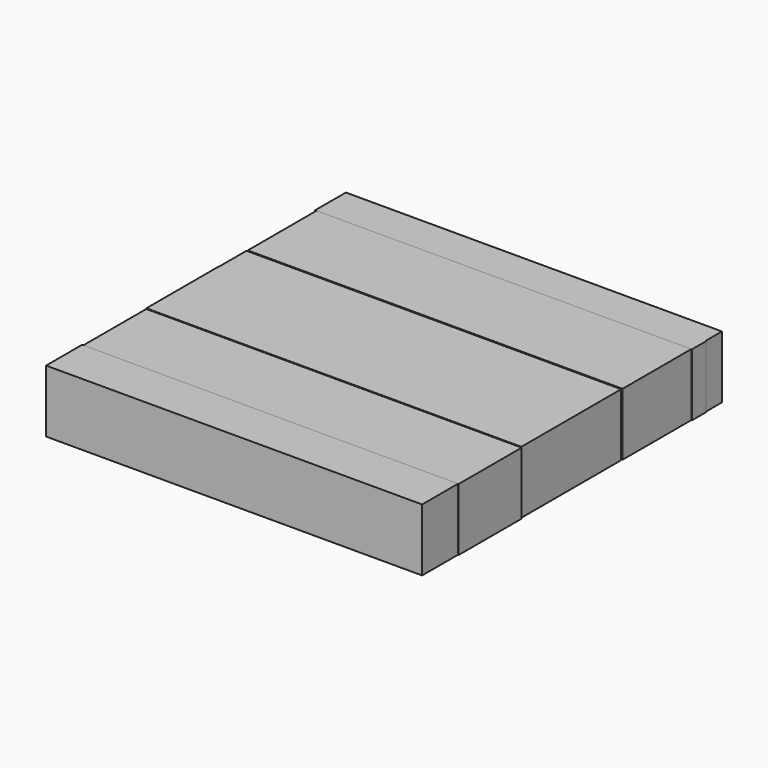
from build123d import *

# Parameters (mm, degrees)
F0_W     = 152.3466408253
F0_H     = 14.1597399488
F1_DEPTH = 25.4
F2_W     = 152.2337943316
F2_H     = 19.3312801421
F2_H_2   = 16.1093920469
F3_DEPTH = 25.4
F2_W_2   = 152.5022834539
F2_H_3   = 17.7203342319
F2_H_4   = 14.2299719155
F4_W     = 152.7707725763
F4_H     = 8.3231925964
F4_H_2   = 7.249224931
F4_W_2   = 0.2684816718
F5_DEPTH = 25.4
F4_H_3   = 6.7122429609
F4_H_4   = 11.5450695157


with BuildPart() as f1:
    # F0 (on Top) → F1 (new body)
    with BuildSketch(Plane.XY):
        Polygon((-76.4639377594, 11.2596936524), (-76.5942409635, 11.2596936524), (-76.5942409635, -11.483262293), (75.7523998618, -11.483262293), (75.7523998618, 11.2596936524), align=None)
        Polygon((-76.4639377594, 18.1400524452), (-76.4639377594, 11.2596936524), (75.7523998618, 11.2596936524), (75.7523998618, 25.0204112381), (-76.4639377594, 25.0204112381), align=None)
        with Locations((-0.4209205508, -18.5631322674)):
            Rectangle(F0_W, F0_H)
    extrude(amount=F1_DEPTH)


with BuildPart() as f3:
    # F2 (on Top) → F3 (new body)
    with BuildSketch(Plane.XY):
        with Locations((-0.1971200109, 51.2815769762)):
            Rectangle(F2_W, F2_H)
        with Locations((-0.1971200109, 33.5612408817)):
            Rectangle(F2_W, F2_H_2)
    extrude(amount=F3_DEPTH)


with BuildPart() as f3b:
    # F2 (on Top) → F3, piece 2 (new body)
    with BuildSketch(Plane.XY):
        with Locations((-0.0628754497, -34.9036902189)):
            Rectangle(F2_W_2, F2_H_3)
        with Locations((-0.0628754497, -50.8788432926)):
            Rectangle(F2_W_2, F2_H_4)
    extrude(amount=F3_DEPTH)


with BuildPart() as f5:
    # F4 (on face) → F5 (new body)
    with BuildSketch(Plane.XY):
        with Locations((-0.4656091332, 71.8210563064)):
            Rectangle(F4_W, F4_H)
        with Locations((-0.4656091332, 64.0348475426)):
            Rectangle(F4_W, F4_H_2)
        with Locations((76.0540179908, 64.0348475426)):
            Rectangle(F4_W_2, F4_H_2)
    extrude(amount=F5_DEPTH)


with BuildPart() as f5b:
    # F4 (on face) → F5, piece 2 (new body)
    with BuildSketch(Plane.XY):
        with Locations((-0.4656091332, -61.3499507308)):
            Rectangle(F4_W, F4_H_3)
        with Locations((-0.4656091332, -70.4786069691)):
            Rectangle(F4_W, F4_H_4)
    extrude(amount=F5_DEPTH)


solid = Compound([f1.part, f3.part, f3b.part, f5.part, f5b.part])
